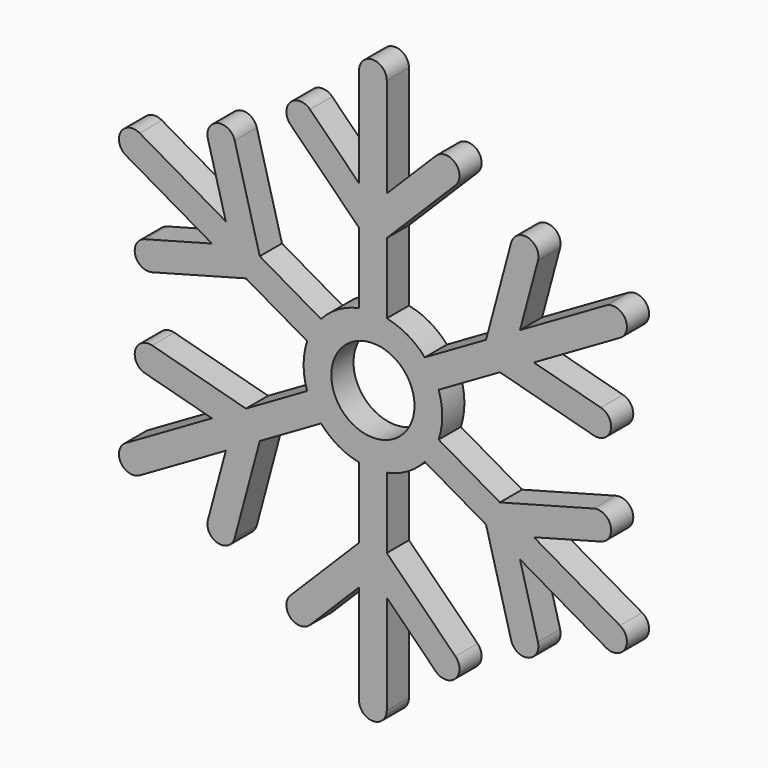
from build123d import *

# Parameters (mm, degrees)
F0_R     = 3
F1_DEPTH = 2


with BuildPart() as f1:
    # F0 (on Front) → F1 (new body)
    with BuildSketch(Plane.XZ):
        with BuildLine():
            Line((-1, 10), (-1, 4.898979))
            ThreePointArc((-1, 4.898979), (-2.5, 4.330127), (-3.742641, 3.315515))
            Line((-3.742641, 3.315515), (-8.160254, 5.866025))
            Line((-8.160254, 5.866025), (-9.971987, 12.627506))
            ThreePointArc((-9.971987, 12.627506), (-11.196732, 13.334613), (-11.903839, 12.109868))
            Line((-11.903839, 12.109868), (-10.609744, 7.280239))
            Line((-10.609744, 7.280239), (-16.820508, 10.866025))
            ThreePointArc((-16.820508, 10.866025), (-18.186533, 10.5), (-17.820508, 9.133975))
            Line((-17.820508, 9.133975), (-11.609744, 5.548188))
            Line((-11.609744, 5.548188), (-16.439373, 4.254093))
            ThreePointArc((-16.439373, 4.254093), (-17.14648, 3.029348), (-15.921735, 2.322241))
            Line((-15.921735, 2.322241), (-9.160254, 4.133975))
            Line((-9.160254, 4.133975), (-4.742641, 1.583464))
            ThreePointArc((-4.742641, 1.583464), (-5, 0), (-4.742641, -1.583464))
            Line((-4.742641, -1.583464), (-9.160254, -4.133975))
            Line((-9.160254, -4.133975), (-15.921735, -2.322241))
            ThreePointArc((-15.921735, -2.322241), (-17.14648, -3.029348), (-16.439373, -4.254093))
            Line((-16.439373, -4.254093), (-11.609744, -5.548188))
            Line((-11.609744, -5.548188), (-17.820508, -9.133975))
            ThreePointArc((-17.820508, -9.133975), (-18.186533, -10.5), (-16.820508, -10.866025))
            Line((-16.820508, -10.866025), (-10.609744, -7.280239))
            Line((-10.609744, -7.280239), (-11.903839, -12.109868))
            ThreePointArc((-11.903839, -12.109868), (-11.196732, -13.334613), (-9.971987, -12.627506))
            Line((-9.971987, -12.627506), (-8.160254, -5.866025))
            Line((-8.160254, -5.866025), (-3.742641, -3.315515))
            ThreePointArc((-3.742641, -3.315515), (-2.5, -4.330127), (-1, -4.898979))
            Line((-1, -4.898979), (-1, -10))
            Line((-1, -10), (-5.949747, -14.949747))
            ThreePointArc((-5.949747, -14.949747), (-5.949747, -16.363961), (-4.535534, -16.363961))
            Line((-4.535534, -16.363961), (-1, -12.828427))
            Line((-1, -12.828427), (-1, -20))
            ThreePointArc((-1, -20), (0, -21), (1, -20))
            Line((1, -20), (1, -12.828427))
            Line((1, -12.828427), (4.535534, -16.363961))
            ThreePointArc((4.535534, -16.363961), (5.949747, -16.363961), (5.949747, -14.949747))
            Line((5.949747, -14.949747), (1, -10))
            Line((1, -10), (1, -4.898979))
            ThreePointArc((1, -4.898979), (2.5, -4.330127), (3.742641, -3.315515))
            Line((3.742641, -3.315515), (8.160254, -5.866025))
            Line((8.160254, -5.866025), (9.971987, -12.627506))
            ThreePointArc((9.971987, -12.627506), (11.196732, -13.334613), (11.903839, -12.109868))
            Line((11.903839, -12.109868), (10.609744, -7.280239))
            Line((10.609744, -7.280239), (16.820508, -10.866025))
            ThreePointArc((16.820508, -10.866025), (18.186533, -10.5), (17.820508, -9.133975))
            Line((17.820508, -9.133975), (11.609744, -5.548188))
            Line((11.609744, -5.548188), (16.439373, -4.254093))
            ThreePointArc((16.439373, -4.254093), (17.14648, -3.029348), (15.921735, -2.322241))
            Line((15.921735, -2.322241), (9.160254, -4.133975))
            Line((9.160254, -4.133975), (4.742641, -1.583464))
            ThreePointArc((4.742641, -1.583464), (5, 0), (4.742641, 1.583464))
            Line((4.742641, 1.583464), (9.160254, 4.133975))
            Line((9.160254, 4.133975), (15.921735, 2.322241))
            ThreePointArc((15.921735, 2.322241), (17.14648, 3.029348), (16.439373, 4.254093))
            Line((16.439373, 4.254093), (11.609744, 5.548188))
            Line((11.609744, 5.548188), (17.820508, 9.133975))
            ThreePointArc((17.820508, 9.133975), (18.186533, 10.5), (16.820508, 10.866025))
            Line((16.820508, 10.866025), (10.609744, 7.280239))
            Line((10.609744, 7.280239), (11.903839, 12.109868))
            ThreePointArc((11.903839, 12.109868), (11.196732, 13.334613), (9.971987, 12.627506))
            Line((9.971987, 12.627506), (8.160254, 5.866025))
            Line((8.160254, 5.866025), (3.742641, 3.315515))
            ThreePointArc((3.742641, 3.315515), (2.5, 4.330127), (1, 4.898979))
            Line((1, 4.898979), (1, 10))
            Line((1, 10), (5.949747, 14.949747))
            ThreePointArc((5.949747, 14.949747), (5.949747, 16.363961), (4.535534, 16.363961))
            Line((4.535534, 16.363961), (1, 12.828427))
            Line((1, 12.828427), (1, 20))
            ThreePointArc((1, 20), (0, 21), (-1, 20))
            Line((-1, 20), (-1, 12.828427))
            Line((-1, 12.828427), (-4.535534, 16.363961))
            ThreePointArc((-4.535534, 16.363961), (-5.949747, 16.363961), (-5.949747, 14.949747))
            Line((-5.949747, 14.949747), (-1, 10))
        make_face()
        Circle(F0_R, mode=Mode.SUBTRACT)
    extrude(amount=F1_DEPTH)


solid = f1.part
